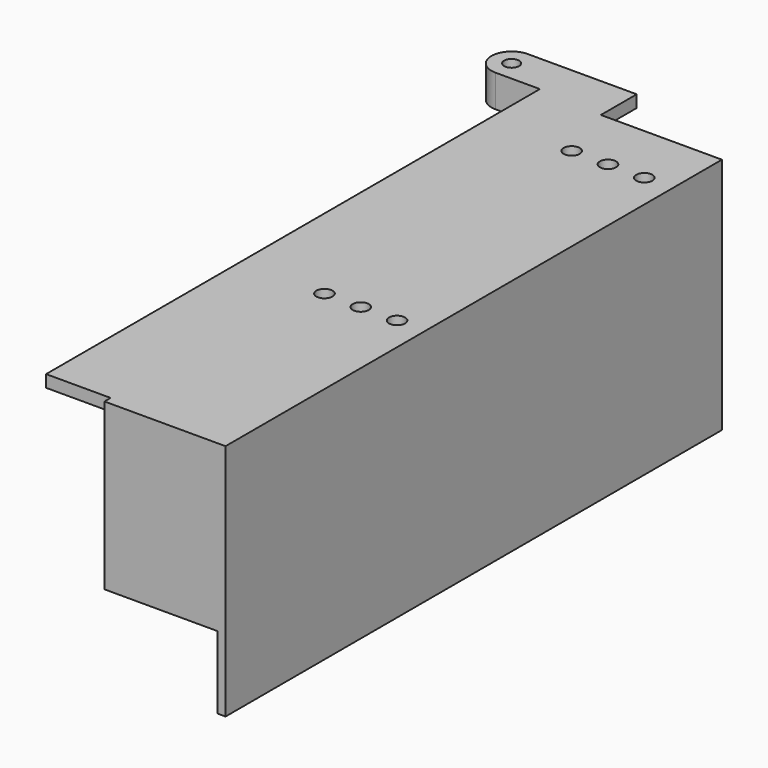
from build123d import *

# Parameters (mm, degrees)
SKETCH250_W       = 8
SKETCH250_H       = 8
SKETCH250_R       = 1.75
PAD023_DEPTH      = 3
SKETCH252_W       = 44
SKETCH252_H       = 150
SKETCH252_R       = 2
PAD024_DEPTH      = 3
PAD025_DEPTH      = 59
PAD026_DEPTH      = 30
SKETCH255_W       = 16
SKETCH255_H       = 13
PAD027_DEPTH      = 3
SKETCH256_R       = 1.85
PAD028_DEPTH      = 3
PAD028_DEPTH_BACK = 5
SKETCH257_W       = 32
SKETCH257_H       = 19
POCKET018_DEPTH   = 5


with BuildPart() as part:
    # Sketch250 → Pad023 (new body)
    with BuildSketch(Plane.YZ):
        Rectangle(SKETCH250_W, SKETCH250_H)
        Circle(SKETCH250_R, mode=Mode.SUBTRACT)
    extrude(amount=PAD023_DEPTH)

    # Sketch252 → Pad024 (join)
    with BuildSketch(Plane.XY.offset(4)):
        with Locations((6, 63)):
            Rectangle(SKETCH252_W, SKETCH252_H)
        with Locations((5, 48)):
            Circle(SKETCH252_R, mode=Mode.SUBTRACT)
        with Locations((14, 48)):
            Circle(SKETCH252_R, mode=Mode.SUBTRACT)
        with Locations((23, 48)):
            Circle(SKETCH252_R, mode=Mode.SUBTRACT)
        with Locations((23, 124.6)):
            Circle(SKETCH252_R, mode=Mode.SUBTRACT)
        with Locations((14, 124.6)):
            Circle(SKETCH252_R, mode=Mode.SUBTRACT)
        with Locations((5, 124.6)):
            Circle(SKETCH252_R, mode=Mode.SUBTRACT)
    extrude(amount=PAD024_DEPTH)

    # Sketch253 → Pad025 (join)
    with BuildSketch(Plane.XY.offset(7)):
        Polygon((0, 139.9), (0, 138), (28, 138), (28, -12), (0, -12), (0, -13.9), (30, -13.9), (30, 139.9), align=None)
    extrude(amount=-PAD025_DEPTH)

    # Sketch254 → Pad026 (join)
    with BuildSketch(Plane.XZ.offset(-100)):
        with BuildLine():
            ThreePointArc((-6, 4), (-4.6, 2.6), (-3.2, 4))
            Line((-6, 4), (-3.2, 4))
        make_face()
        with BuildLine():
            ThreePointArc((-11.9, 4), (-10.5, 2.6), (-9.1, 4))
            Line((-11.9, 4), (-9.1, 4))
        make_face()
    extrude(amount=-PAD026_DEPTH)

    # Sketch255 → Pad027 (join)
    with BuildSketch(Plane.XY.offset(4)):
        with Locations((-8, 144.5)):
            Rectangle(SKETCH255_W, SKETCH255_H)
    extrude(amount=PAD027_DEPTH)

    # Sketch256 → Pad028 (join, two sides)
    with BuildSketch(Plane.XY.offset(4)) as pad028_sk:
        with BuildLine():
            Line((-16, 141), (-27, 141))
            ThreePointArc((-27, 151), (-32, 146), (-27, 141))
            Line((-27, 151), (-16, 151))
            Line((-16, 151), (-16, 141))
        make_face()
        with Locations((-27, 146)):
            Circle(SKETCH256_R, mode=Mode.SUBTRACT)
    extrude(amount=PAD028_DEPTH)
    extrude(pad028_sk.sketch, amount=-PAD028_DEPTH_BACK)

    # Sketch257 → Pocket018 (cut)
    with BuildSketch(Plane.XZ.offset(14)):
        with Locations((12, -43.5)):
            Rectangle(SKETCH257_W, SKETCH257_H)
    extrude(amount=-POCKET018_DEPTH, mode=Mode.SUBTRACT)


with BuildPart() as part_1:
    # Body012 placement: moved
    add(part.part.moved(Location((-69, -48, 241))))


solid = part_1.part
